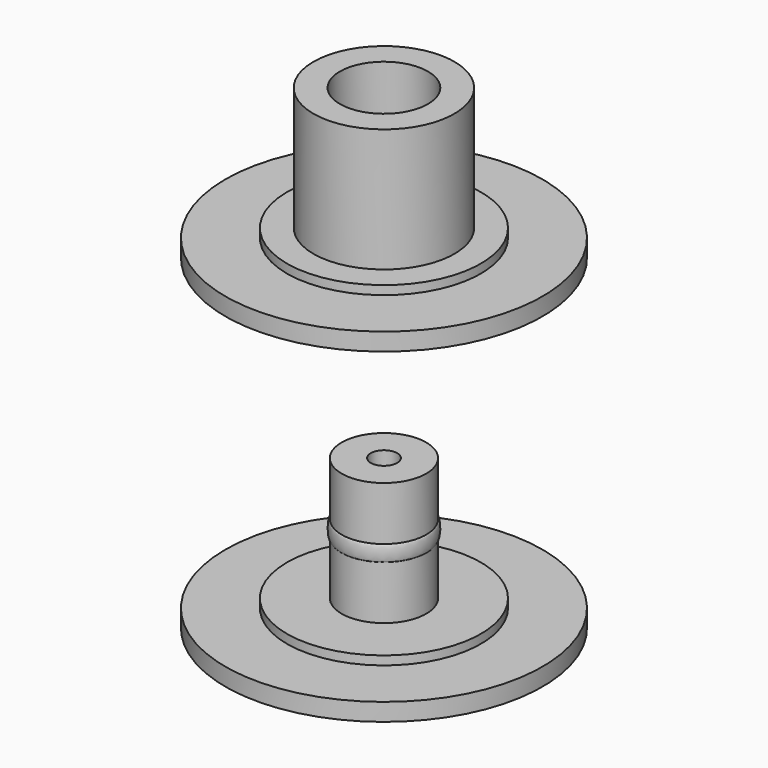
from build123d import *


with BuildPart() as f1:
    # F0 (on Front) → F1 (revolve)
    with BuildSketch(Plane.XZ):
        with BuildLine():
            Line((-9, 0), (0, 0))
            Line((0, 0), (0, 1.5))
            Line((0, 1.5), (-2.5, 1.5))
            Line((-2.5, 1.5), (-2.5, 4.5))
            ThreePointArc((-2.5, 4.5), (-3, 5), (-2.5, 5.5))
            Line((-2.5, 5.5), (-2.5, 8.5))
            Line((-2.5, 8.5), (-4, 8.5))
            Line((-4, 8.5), (-4, 1.5))
            Line((-4, 1.5), (-5.5, 1.5))
            Line((-5.5, 1.5), (-5.5, 1))
            Line((-5.5, 1), (-9, 1))
            Line((-9, 1), (-9, 0))
        make_face()
    revolve(axis=Axis((0, 0, 0.75), (0, 0, 1)))


with BuildPart() as f2:
    # F0 (on Front) → F2 (revolve)
    with BuildSketch(Plane.XZ):
        with BuildLine():
            Line((-9, -18.5), (0, -18.5))
            Line((0, -18.5), (0, -17))
            Line((0, -17), (-0.75, -17))
            Line((-0.75, -17), (-0.75, -10))
            Line((-0.75, -10), (-2.4, -10))
            Line((-2.4, -10), (-2.4, -13.05))
            add(Edge.make_bspline(
                [(-2.4, -13.05), (-2.5, -13.05), (-2.5, -13.5), (-2.5, -13.95), (-2.4, -13.95)],
                knots=[3.1415926536, 3.1415926536, 3.1415926536, 4.7123889804, 4.7123889804, 6.2831853072, 6.2831853072, 6.2831853072], degree=2, weights=[1, 0.7071067812, 1, 0.7071067812, 1]))
            Line((-2.4, -13.95), (-2.4, -17))
            Line((-2.4, -17), (-5.5, -17))
            Line((-5.5, -17), (-5.5, -17.5))
            Line((-5.5, -17.5), (-9, -17.5))
            Line((-9, -17.5), (-9, -18.5))
        make_face()
    revolve(axis=Axis((0, 0, -17.75), (0, 0, -1)))


solid = Compound([f1.part, f2.part])
